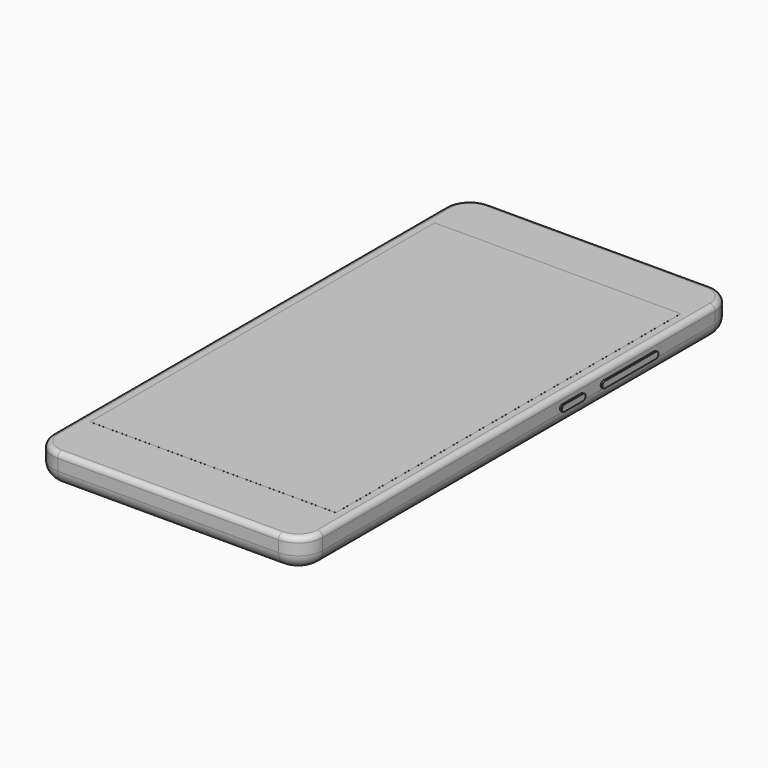
from build123d import *

# Parameters (mm, degrees)
F1_DEPTH  = 4.35
F2_R      = 4
F3_R      = 1.5
F7_R      = 6
F8_DEPTH  = 4.65
F9_W      = 70.2
F9_H      = 123
F10_DEPTH = 0.01
F11_R     = 2
F11_R_2   = 0.5
F12_DEPTH = 0.2
F14_DEPTH = 6
F15_W     = 18.2
F15_H     = 1.8
F15_W_2   = 6.7
F16_DEPTH = 0.5


with BuildPart() as f1:
    # F0 (on Top) → F1 (new body, symmetric)
    with BuildSketch(Plane.XY):
        with BuildLine():
            Line((31.5, 77), (-31.5, 77))
            ThreePointArc((-31.5, 77), (-36.4497474683, 74.9497474683), (-38.5, 70))
            Line((-38.5, 70), (-38.5, -70))
            ThreePointArc((-38.5, -70), (-36.4497474683, -74.9497474683), (-31.5, -77))
            Line((-31.5, -77), (31.5, -77))
            ThreePointArc((31.5, -77), (36.4497474683, -74.9497474683), (38.5, -70))
            Line((38.5, -70), (38.5, 70))
            ThreePointArc((38.5, 70), (36.4497474683, 74.9497474683), (31.5, 77))
        make_face()
    extrude(amount=F1_DEPTH, both=True)

    # F2
    f2_edges = [f1.edges().sort_by_distance(p)[0] for p in [
        (38.5, 0, -4.35),
    ]]
    fillet(f2_edges, radius=F2_R)

    # F3
    f3_edges = [f1.edges().sort_by_distance(p)[0] for p in [
        (36.449747, 74.949747, 4.35),
        (0, 77, 4.35),
        (-36.449747, 74.949747, 4.35),
        (-38.5, 0, 4.35),
        (-36.449747, -74.949747, 4.35),
        (0, -77, 4.35),
        (36.449747, -74.949747, 4.35),
        (38.5, 0, 4.35),
    ]]
    fillet(f3_edges, radius=F3_R)

    # F7 (on offset) → F8 (join, through all)
    with BuildSketch(Plane(origin=(0, 0, -4.65), x_dir=(1, 0, 0), z_dir=(0, 0, -1))):
        with Locations((25, -69.2)):
            Circle(F7_R)
    extrude(amount=-F8_DEPTH)

    # F11 (on face) → F12 (cut)
    with BuildSketch(Plane(origin=(0, 0, -4.35), x_dir=(1, 0, 0), z_dir=(0, 0, -1))):
        with Locations((25, -57.2)):
            Circle(F11_R)
        with Locations((4.5, -67.5)):
            Circle(F11_R_2)
    extrude(amount=-F12_DEPTH, mode=Mode.SUBTRACT)

    # F13 (on face) → F14 (cut)
    with BuildSketch(Plane(origin=(0, 77, 0), x_dir=(-1, 0, 0), z_dir=(0, 1, 0))):
        with BuildLine():
            ThreePointArc((8.5226280067, -0.35), (10.3495739163, -2.6443349752), (12.5, -0.65))
            ThreePointArc((12.5, -0.65), (12.4943349752, -0.4995739163), (12.4773719933, -0.35))
            Line((12.4773719933, -0.35), (8.5226280067, -0.35))
        make_face()
        with BuildLine():
            Line((8.5226280067, -0.35), (12.4773719933, -0.35))
            ThreePointArc((12.4773719933, -0.35), (10.5, 1.35), (8.5226280067, -0.35))
        make_face()
    extrude(amount=-F14_DEPTH, mode=Mode.SUBTRACT)

    # F15 (on face) → F16 (join)
    with BuildSketch(Plane.YZ.offset(38.5)):
        with BuildLine():
            ThreePointArc((48.3, -0.15), (49.2, 0.75), (48.3, 1.65))
            Line((48.3, 1.65), (48.3, -0.15))
        make_face()
        with Locations((39.2, 0.75)):
            Rectangle(F15_W, F15_H)
        with BuildLine():
            Line((30.1, -0.15), (30.1, 1.65))
            ThreePointArc((30.1, 1.65), (29.2, 0.75), (30.1, -0.15))
        make_face()
        with BuildLine():
            ThreePointArc((22.3, -0.15), (23.2, 0.75), (22.3, 1.65))
            Line((22.3, 1.65), (22.3, -0.15))
        make_face()
        with Locations((18.95, 0.75)):
            Rectangle(F15_W_2, F15_H)
        with BuildLine():
            Line((15.6, -0.15), (15.6, 1.65))
            ThreePointArc((15.6, 1.65), (14.7, 0.75), (15.6, -0.15))
        make_face()
    extrude(amount=F16_DEPTH)


with BuildPart() as f10:
    # F9 (on face) → F10 (new body)
    with BuildSketch(Plane.XY.offset(4.35)):
        with Locations((0, 0.5)):
            Rectangle(F9_W, F9_H)
    extrude(amount=F10_DEPTH)


solid = Compound([f1.part, f10.part])
